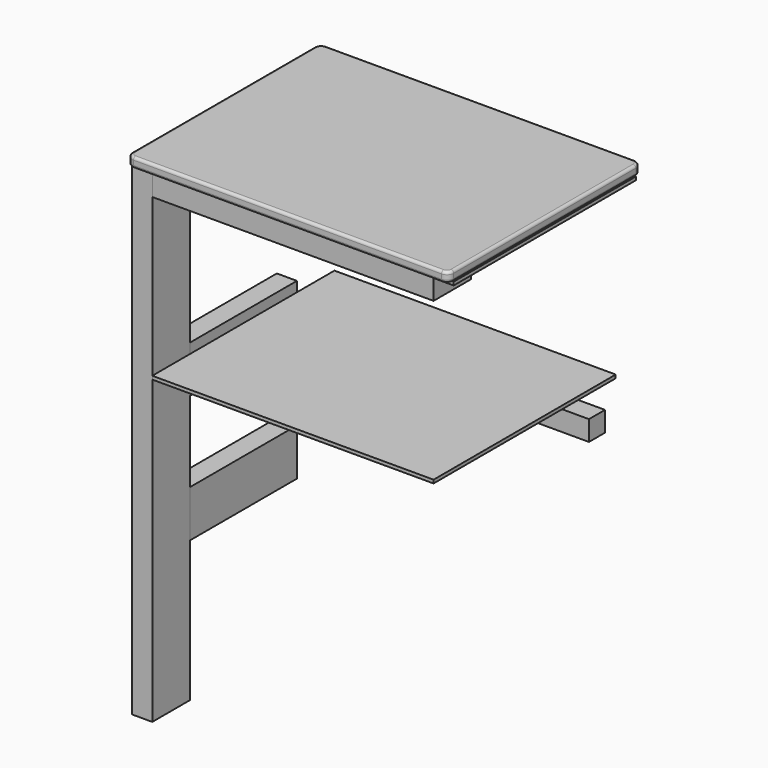
from build123d import *

# Parameters (mm, degrees)
F0_W           = 609.6
F0_H           = 431.8
F1_DEPTH       = 6.35
F2_W           = 38.1
F2_H           = 88.9
F3_DEPTH       = 914.4
F4_W           = 88.9
F4_H           = 38.1
F5_DEPTH       = 533.4
F6_W           = 38.1
F6_H           = 38.1
F7_DEPTH       = 254
F8_W           = 38.1
F8_H           = 88.9
F9_DEPTH       = 254
F11_DEPTH      = 38.1
F12_W          = 38.1
F12_H          = 38.1
F13_DEPTH      = 622.3
F13_DEPTH_BACK = 12.7
F14_W          = 533.4
F14_H          = 431.8
F15_DEPTH      = 6.35
F16_W          = 609.6
F16_H          = 457.2
F17_DEPTH      = 19.05
F18_R          = 12.7
F19_R          = 5.08


with BuildPart() as f1:
    # F0 (on Top) → F1 (new body)
    with BuildSketch(Plane.XY):
        Rectangle(F0_W, F0_H)
    extrude(amount=-F1_DEPTH)


with BuildPart() as f3:
    # F2 (on face) → F3 (new body)
    with BuildSketch(Plane(origin=(0, 0, -6.35), x_dir=(1, 0, 0), z_dir=(0, 0, -1))):
        with Locations((-285.75, 171.45)):
            Rectangle(F2_W, F2_H)
    extrude(amount=F3_DEPTH)


with BuildPart() as f5:
    # F4 (on face) → F5 (new body)
    with BuildSketch(Plane.YZ.offset(-266.7)):
        with Locations((-171.45, -25.4)):
            Rectangle(F4_W, F4_H)
    extrude(amount=F5_DEPTH)


with BuildPart() as f7:
    # F6 (on face) → F7 (new body)
    with BuildSketch(Plane(origin=(0, -127, 0), x_dir=(-1, 0, 0), z_dir=(0, 1, 0))):
        with Locations((285.75, -25.4)):
            Rectangle(F6_W, F6_H)
    extrude(amount=F7_DEPTH)


with BuildPart() as f9:
    # F8 (on face) → F9 (new body)
    with BuildSketch(Plane(origin=(0, -127, 0), x_dir=(-1, 0, 0), z_dir=(0, 1, 0))):
        with Locations((285.75, -609.6)):
            Rectangle(F8_W, F8_H)
    extrude(amount=F9_DEPTH)


with BuildPart() as f11:
    # F10 (on face) → F11 (new body)
    with BuildSketch(Plane(origin=(-304.8, 0, 0), x_dir=(0, -1, 0), z_dir=(-1, 0, 0))):
        Polygon((127, -349.25), (127, -323.85), (-127, -323.85), (-127, -349.25), (-88.9, -349.25), (-88.9, -387.35), (-127, -387.35), (-127, -412.75), (127, -412.75), (127, -387.35), (88.9, -387.35), (88.9, -349.25), align=None)
    extrude(amount=-F11_DEPTH)


with BuildPart() as f13:
    # F12 (on face) → F13 (new body, two sides)
    with BuildSketch(Plane(origin=(-304.8, 0, 0), x_dir=(0, -1, 0), z_dir=(-1, 0, 0))) as f13_sk:
        with Locations((-107.95, -368.3)):
            Rectangle(F12_W, F12_H)
    extrude(amount=-F13_DEPTH)
    extrude(f13_sk.sketch, amount=F13_DEPTH_BACK)


with BuildPart() as f15:
    # F14 (on face) → F15 (new body)
    with BuildSketch(Plane.XY.offset(-349.25)):
        Rectangle(F14_W, F14_H)
    extrude(amount=F15_DEPTH)


with BuildPart() as f17:
    # F16 (on face) → F17 (new body)
    with BuildSketch(Plane.XY):
        Rectangle(F16_W, F16_H)
    extrude(amount=F17_DEPTH)

    # F18
    f18_edges = [f17.edges().sort_by_distance(p)[0] for p in [
        (304.8, -228.6, 9.525),
        (-304.8, -228.6, 9.525),
        (-304.8, 228.6, 9.525),
        (304.8, 228.6, 9.525),
    ]]
    fillet(f18_edges, radius=F18_R)

    # F19
    f19_edges = [f17.edges().sort_by_distance(p)[0] for p in [
        (0, -228.6, 0),
        (-301.080256, -224.880256, 0),
        (301.080256, -224.880256, 0),
        (-304.8, 0, 0),
        (304.8, 0, 0),
        (-301.080256, 224.880256, 0),
        (301.080256, 224.880256, 0),
        (0, 228.6, 0),
        (0, -228.6, 19.05),
        (-301.080256, -224.880256, 19.05),
        (301.080256, -224.880256, 19.05),
        (-304.8, 0, 19.05),
        (304.8, 0, 19.05),
        (-301.080256, 224.880256, 19.05),
        (301.080256, 224.880256, 19.05),
        (0, 228.6, 19.05),
    ]]
    fillet(f19_edges, radius=F19_R)


solid = Compound([f1.part, f3.part, f5.part, f7.part, f9.part, f11.part, f13.part, f15.part, f17.part])
